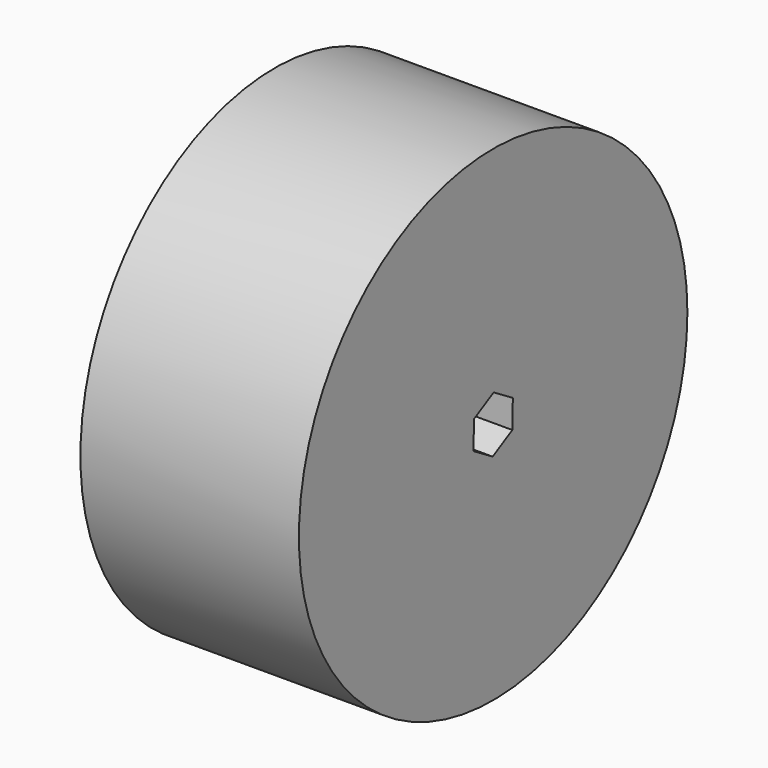
from build123d import *

# Parameters (mm, degrees)
F0_R     = 63.5
F1_DEPTH = 57.15


with BuildPart() as f1:
    # F0 (on Right) → F1 (new body)
    with BuildSketch(Plane.YZ):
        Circle(F0_R)
        Polygon((-6.264749, 3.81002), (0.1672, 7.330442), (6.431949, 3.520422), (6.264749, -3.81002), (-0.1672, -7.330442), (-6.431949, -3.520422), align=None, mode=Mode.SUBTRACT)
    extrude(amount=F1_DEPTH)


solid = f1.part
